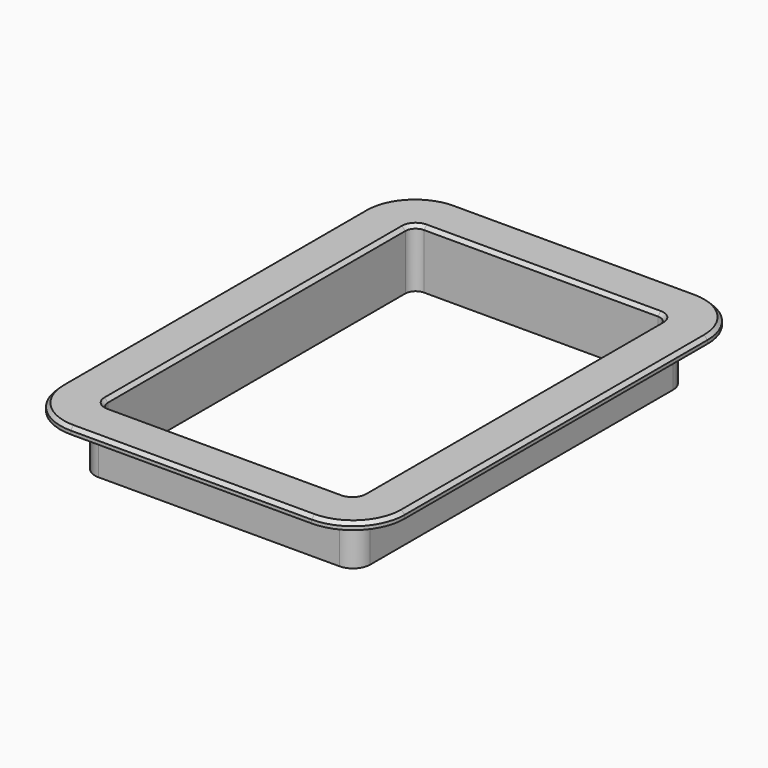
from build123d import *

# Parameters (mm, degrees)
F1_DEPTH = 2
F2_DEPTH = 15
F3_SIZE  = 1


with BuildPart() as f1:
    # F0 (on Top) → F1 (new body)
    with BuildSketch(Plane.XY):
        with BuildLine():
            Line((5, -10), (75, -10))
            ThreePointArc((75, -10), (85.606602, -5.606602), (90, 5))
            Line((90, 5), (90, 115))
            ThreePointArc((90, 115), (85.606602, 125.606602), (75, 130))
            Line((75, 130), (5, 130))
            ThreePointArc((5, 130), (-5.606602, 125.606602), (-10, 115))
            Line((-10, 115), (-10, 5))
            ThreePointArc((-10, 5), (-5.606602, -5.606602), (5, -10))
        make_face()
        with BuildLine():
            Line((75, 0), (5, 0))
            ThreePointArc((5, 0), (1.464466, 1.464466), (0, 5))
            Line((0, 5), (0, 115))
            ThreePointArc((0, 115), (1.464466, 118.535534), (5, 120))
            Line((5, 120), (75, 120))
            ThreePointArc((75, 120), (78.535534, 118.535534), (80, 115))
            Line((80, 115), (80, 5))
            ThreePointArc((80, 5), (78.535534, 1.464466), (75, 0))
        make_face(mode=Mode.SUBTRACT)
        with BuildLine():
            ThreePointArc((0, 5), (1.464466, 1.464466), (5, 0))
            Line((5, 0), (75, 0))
            ThreePointArc((75, 0), (78.535534, 1.464466), (80, 5))
            Line((80, 5), (80, 115))
            ThreePointArc((80, 115), (78.535534, 118.535534), (75, 120))
            Line((75, 120), (5, 120))
            ThreePointArc((5, 120), (1.464466, 118.535534), (0, 115))
            Line((0, 115), (0, 5))
        make_face()
        with BuildLine():
            Line((77, 114), (77, 6))
            ThreePointArc((77, 6), (76.12132, 3.87868), (74, 3))
            Line((74, 3), (6, 3))
            ThreePointArc((6, 3), (3.87868, 3.87868), (3, 6))
            Line((3, 6), (3, 114))
            ThreePointArc((3, 114), (3.87868, 116.12132), (6, 117))
            Line((6, 117), (74, 117))
            ThreePointArc((74, 117), (76.12132, 116.12132), (77, 114))
        make_face(mode=Mode.SUBTRACT)
    extrude(amount=F1_DEPTH)

    # F0 (on Top) → F2 (join)
    with BuildSketch(Plane.XY):
        with BuildLine():
            ThreePointArc((0, 5), (1.464466, 1.464466), (5, 0))
            Line((5, 0), (75, 0))
            ThreePointArc((75, 0), (78.535534, 1.464466), (80, 5))
            Line((80, 5), (80, 115))
            ThreePointArc((80, 115), (78.535534, 118.535534), (75, 120))
            Line((75, 120), (5, 120))
            ThreePointArc((5, 120), (1.464466, 118.535534), (0, 115))
            Line((0, 115), (0, 5))
        make_face()
        with BuildLine():
            Line((77, 114), (77, 6))
            ThreePointArc((77, 6), (76.12132, 3.87868), (74, 3))
            Line((74, 3), (6, 3))
            ThreePointArc((6, 3), (3.87868, 3.87868), (3, 6))
            Line((3, 6), (3, 114))
            ThreePointArc((3, 114), (3.87868, 116.12132), (6, 117))
            Line((6, 117), (74, 117))
            ThreePointArc((74, 117), (76.12132, 116.12132), (77, 114))
        make_face(mode=Mode.SUBTRACT)
    extrude(amount=-F2_DEPTH)

    # F3
    f3_edges = [f1.edges().sort_by_distance(p)[0] for p in [
        (77, 60, 2),
        (76.12132, 116.12132, 2),
        (40, 117, 2),
        (3.87868, 116.12132, 2),
        (3, 60, 2),
        (40, 3, 2),
        (76.12132, 3.87868, 2),
        (3.87868, 3.87868, 2),
        (-5.606602, -5.606602, 2),
        (40, -10, 2),
        (85.606602, -5.606602, 2),
        (90, 60, 2),
        (-10, 60, 2),
        (40, 130, 2),
        (-5.606602, 125.606602, 2),
        (85.606602, 125.606602, 2),
    ]]
    chamfer(f3_edges, length=F3_SIZE)


solid = f1.part
